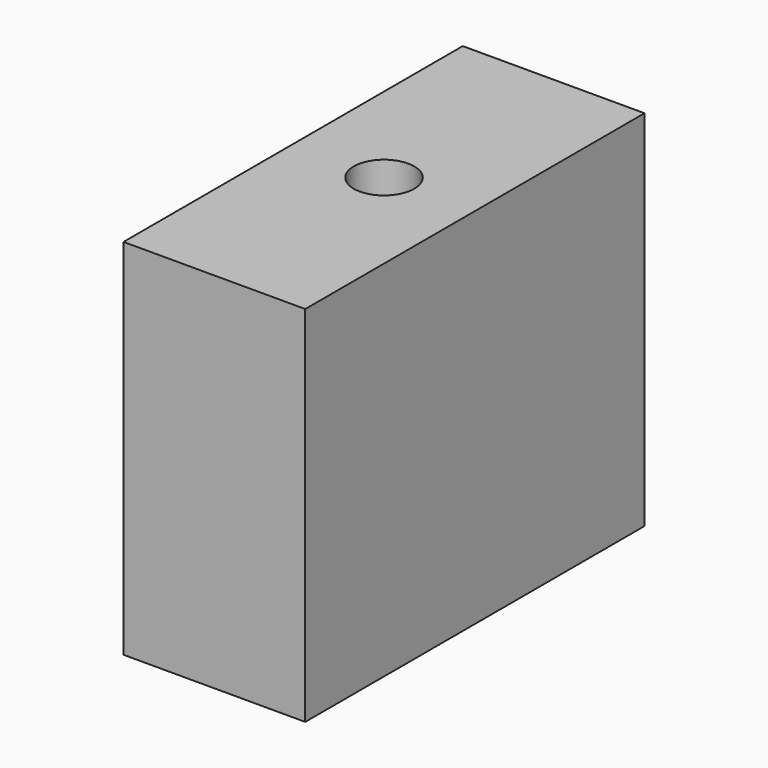
from build123d import *

# Parameters (mm, degrees)
F0_W     = 44.45
F0_H     = 38.1
F1_DEPTH = 19.05
F3_D     = 6.35
F3_DEPTH = 12.7
F3_TIP   = 1.9077324654
F5_D     = 6.35
F5_DEPTH = 12.7
F5_TIP   = 1.9077324654


with BuildPart() as f1:
    # F0 (on Right) → F1 (new body)
    with BuildSketch(Plane.YZ):
        with Locations((22.225, 19.05)):
            Rectangle(F0_W, F0_H)
    extrude(amount=F1_DEPTH)

    # F3
    with Locations(Plane.XY.offset(38.1)):
        with Locations((9.525, 22.225)):
            Hole(F3_D / 2, depth=F3_DEPTH)
            with Locations((0, 0, -(F3_DEPTH + F3_TIP / 2))):  # 118° drill point
                Cone(0, F3_D / 2, F3_TIP, mode=Mode.SUBTRACT)

    # F5
    with Locations(Plane(origin=(0, 0, 0), x_dir=(1, 0, 0), z_dir=(0, 0, -1))):
        with Locations((9.525, -12.7), (9.525, -31.75)):
            Hole(F5_D / 2, depth=F5_DEPTH)
            with Locations((0, 0, -(F5_DEPTH + F5_TIP / 2))):  # 118° drill point
                Cone(0, F5_D / 2, F5_TIP, mode=Mode.SUBTRACT)


solid = f1.part
